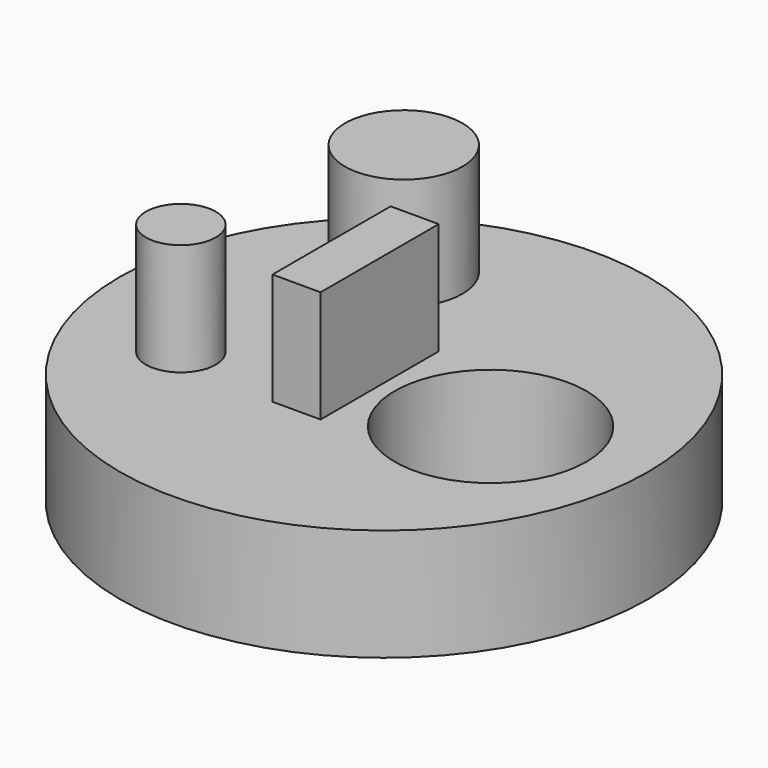
from build123d import *

# Parameters (mm, degrees)
F0_R     = 58.94491
F0_R_2   = 21.394651
F1_DEPTH = 25
F2_R     = 7.799399
F2_R_2   = 13.108155
F3_DEPTH = 25
F4_DEPTH = 25
F5_W     = 10.734647
F5_H     = 32.95438
F6_DEPTH = 25


with BuildPart() as f1:
    # F0 (on Top) → F1 (new body)
    with BuildSketch(Plane.XY):
        with Locations((-34.007099, 3.729807)):
            Circle(F0_R)
        with Locations((-7.240221, 0)):
            Circle(F0_R_2, mode=Mode.SUBTRACT)
    extrude(amount=F1_DEPTH)

    # F2 (on face) → F3 (join)
    with BuildSketch(Plane.XY.offset(25)):
        with Locations((-66.981934, -11.72878)):
            Circle(F2_R)
        with Locations((-55.42469, 36.005322)):
            Circle(F2_R_2)
    extrude(amount=F3_DEPTH)

    # F2 (on face) → F4 (join)
    with BuildSketch(Plane.XY.offset(25)):
        with Locations((-66.981934, -11.72878)):
            Circle(F2_R)
    extrude(amount=F4_DEPTH)

    # F5 (on face) → F6 (join)
    with BuildSketch(Plane.XY.offset(25)):
        with Locations((-37.361666, 0)):
            Rectangle(F5_W, F5_H)
    extrude(amount=F6_DEPTH)


solid = f1.part
